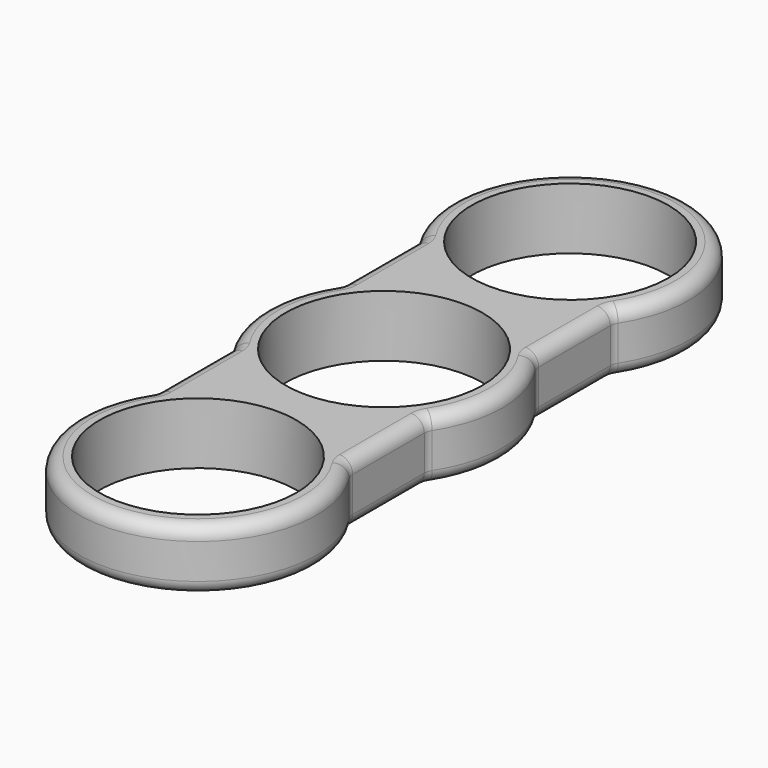
from build123d import *

# Parameters (mm, degrees)
F0_R     = 11.2
F1_DEPTH = 7
F2_R     = 1.5


with BuildPart() as f1:
    # F0 (on Top) → F1 (new body)
    with BuildSketch(Plane.XY):
        with BuildLine():
            Line((11.098155, -18.777835), (11.098155, -7.686413))
            ThreePointArc((11.098155, -7.686413), (13.5, 0), (11.098155, 7.686413))
            Line((11.098155, 7.686413), (11.098155, 18.782745))
            ThreePointArc((11.098155, 18.782745), (0, 39.969158), (-11.098155, 18.782745))
            Line((-11.098155, 18.782745), (-11.098155, 7.686413))
            ThreePointArc((-11.098155, 7.686413), (-13.5, 0), (-11.098155, -7.686413))
            Line((-11.098155, -7.686413), (-11.098155, -18.777835))
            ThreePointArc((-11.098155, -18.777835), (0, -39.964248), (11.098155, -18.777835))
        make_face()
        with Locations((0, -26.464248)):
            Circle(F0_R, mode=Mode.SUBTRACT)
        Circle(F0_R, mode=Mode.SUBTRACT)
        with Locations((0, 26.469158)):
            Circle(F0_R, mode=Mode.SUBTRACT)
    extrude(amount=F1_DEPTH)

    # F2
    f2_edges = [f1.edges().sort_by_distance(p)[0] for p in [
        (11.098155, 18.782745, 3.5),
        (-11.098155, 18.782745, 3.5),
        (0, 39.969158, 0),
        (0, 39.969158, 7),
        (11.098155, 7.686413, 3.5),
        (11.098155, 13.234579, 0),
        (11.098155, 13.234579, 7),
        (11.098155, -7.686413, 3.5),
        (13.5, 0, 0),
        (13.5, 0, 7),
        (11.098155, -18.777835, 3.5),
        (11.098155, -13.232124, 0),
        (11.098155, -13.232124, 7),
        (-11.098155, -18.777835, 3.5),
        (0, -39.964248, 0),
        (0, -39.964248, 7),
        (-11.098155, 7.686413, 3.5),
        (-11.098155, 13.234579, 0),
        (-11.098155, 13.234579, 7),
        (-13.5, 0, 0),
        (-11.098155, -7.686413, 3.5),
        (-11.098155, -13.232124, 0),
        (-11.098155, -13.232124, 7),
        (-13.5, 0, 7),
    ]]
    fillet(f2_edges, radius=F2_R)


solid = f1.part
